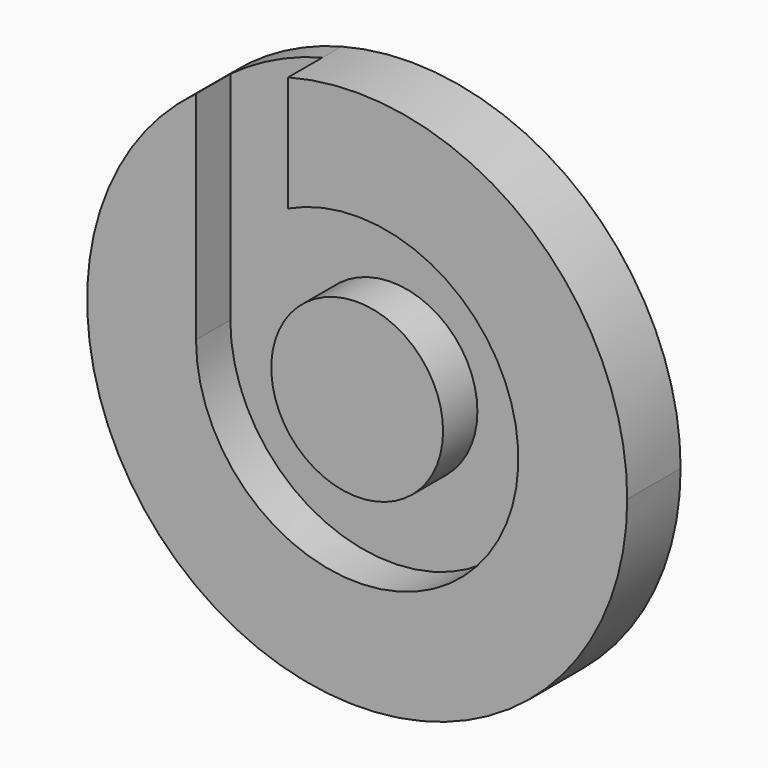
from build123d import *

# Parameters (mm, degrees)
F0_R     = 9.009156
F1_DEPTH = 7
F2_DEPTH = 7
F3_DEPTH = 2.5


with BuildPart() as f1:
    # F0 (on Front) → F1 (new body)
    with BuildSketch(Plane.XZ):
        Circle(F0_R)
    extrude(amount=F1_DEPTH)


with BuildPart() as f2:
    # F0 (on Front) → F2 (new body)
    with BuildSketch(Plane.XZ):
        with BuildLine():
            ThreePointArc((-16.904339, 22.728107), (-12.718152, -25.309526), (28.325316, 0))
            ThreePointArc((28.325316, 0), (17.280956, 22.443085), (-7.239482, 27.384547))
            Line((-7.239482, 27.384547), (-7.239482, 15.275686))
            ThreePointArc((-7.239482, 15.275686), (14.285226, -9.038197), (-16.904339, 0))
            Line((-16.904339, 0), (-16.904339, 22.728107))
        make_face()
    extrude(amount=F2_DEPTH)


with BuildPart() as f3:
    # F0 (on Front) → F3 (new body)
    with BuildSketch(Plane.XZ):
        with BuildLine():
            Line((-7.239482, 15.275686), (-7.239482, 27.384547))
            ThreePointArc((-7.239482, 27.384547), (-12.294374, 25.51807), (-16.904339, 22.728107))
            Line((-16.904339, 22.728107), (-16.904339, 0))
            ThreePointArc((-16.904339, 0), (14.285226, -9.038197), (-7.239482, 15.275686))
        make_face()
        Circle(F0_R, mode=Mode.SUBTRACT)
    extrude(amount=F3_DEPTH)


solid = Compound([f1.part, f2.part, f3.part])
